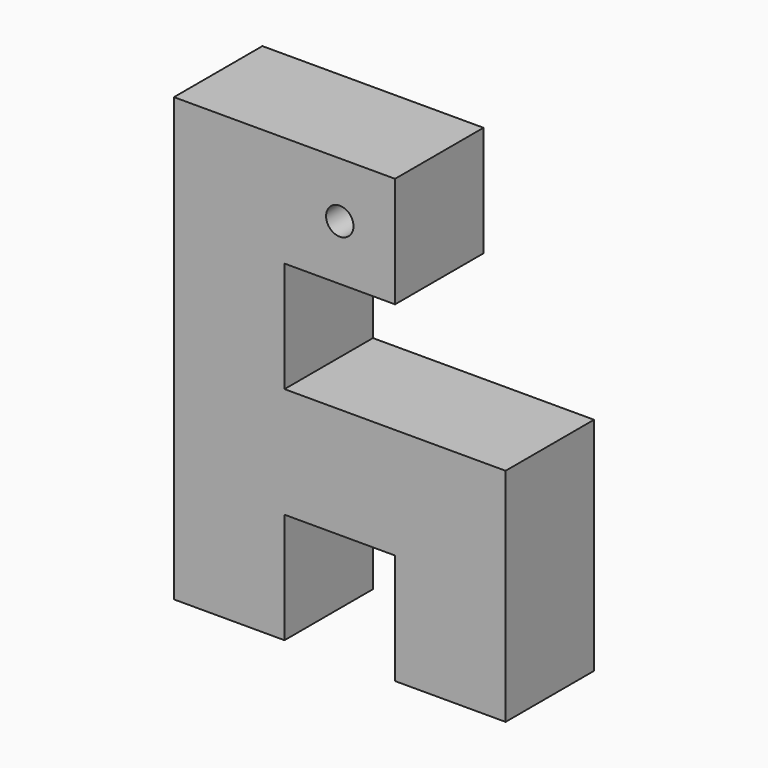
from build123d import *

# Parameters (mm, degrees)
F0_R     = 1.425
F1_DEPTH = 11.5


with BuildPart() as f1:
    # F0 (on Front) → F1 (new body)
    with BuildSketch(Plane.XZ):
        Polygon((0, 46), (0, 0), (11.5, 0), (11.5, 11.5), (23, 11.5), (23, 0), (34.5, 0), (34.5, 23), (11.5, 23), (11.5, 34.5), (23, 34.5), (23, 46), align=None)
        with Locations((17.25, 40.25)):
            Circle(F0_R, mode=Mode.SUBTRACT)
    extrude(amount=F1_DEPTH)


solid = f1.part
